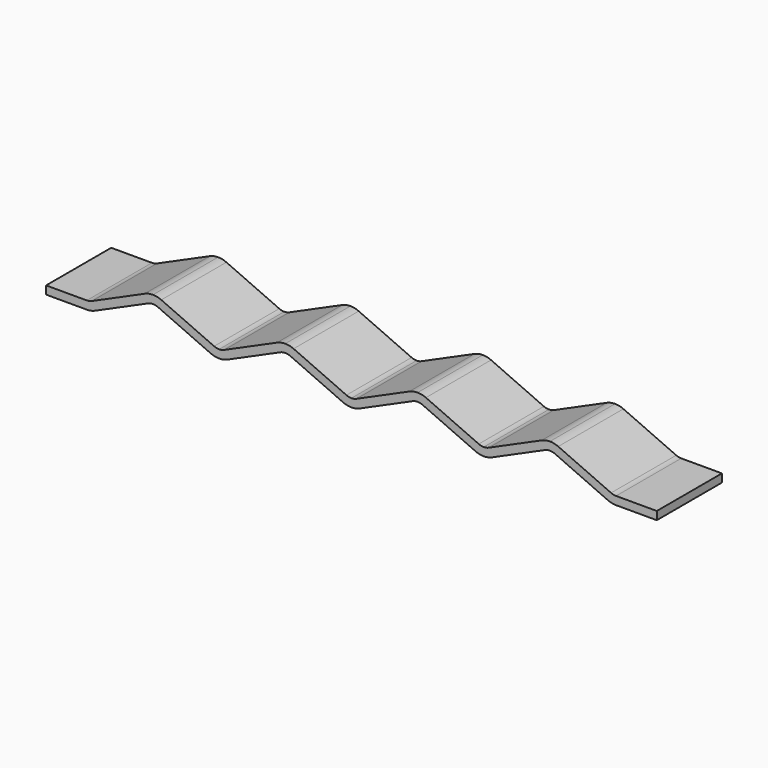
from build123d import *

# Parameters (mm, degrees)
PAD011_DEPTH               = 4
PAD011_MIRRORED008_2_DEPTH = 4
LINEARPATTERN004_COUNT     = 2
LINEARPATTERN004_PITCH     = 6.5
SKETCH041_W                = 2
SKETCH041_H                = 0.4
PAD022_DEPTH               = 4


with BuildPart() as part:
    # Sketch024 (on DatumPlane) → Pad011 (new body)
    with BuildSketch(Plane(origin=(55, 42.304, 0), x_dir=(1, 0, 0), z_dir=(0, -1, 0))):
        with BuildLine():
            Line((0, 5.2), (0, 5.6))
            ThreePointArc((0, 5.6), (0.125164, 5.6132), (0.24482, 5.65222))
            Line((0.24482, 5.65222), (2.841966, 6.812967))
            ThreePointArc((3.25, 6.9), (3.041394, 6.878), (2.841966, 6.812967))
            Line((3.25, 6.5), (3.25, 6.9))
            ThreePointArc((3.25, 6.5), (3.124841, 6.486801), (3.005188, 6.447784))
            Line((0.408034, 5.287033), (3.005188, 6.447784))
            ThreePointArc((0, 5.2), (0.208606, 5.222), (0.408034, 5.287033))
        make_face()
    pad011 = extrude(amount=PAD011_DEPTH)

    # Sketch024 Mirrored008 2 → Pad011 Mirrored008 2 (add)
    with BuildSketch(Plane(origin=(61.5, 42.304, 0), x_dir=(-1, 0, 0), z_dir=(0, 1, 0))):
        with BuildLine():
            Line((0, 5.2), (0, 5.6))
            ThreePointArc((0, 5.6), (0.125164, 5.6132), (0.24482, 5.65222))
            Line((0.24482, 5.65222), (2.841966, 6.812967))
            ThreePointArc((3.25, 6.9), (3.041394, 6.878), (2.841966, 6.812967))
            Line((3.25, 6.5), (3.25, 6.9))
            ThreePointArc((3.25, 6.5), (3.124841, 6.486801), (3.005188, 6.447784))
            Line((0.408034, 5.287033), (3.005188, 6.447784))
            ThreePointArc((0, 5.2), (0.208606, 5.222), (0.408034, 5.287033))
        make_face()
    pad011_mirrored008_2 = extrude(amount=-PAD011_MIRRORED008_2_DEPTH)

    # LinearPattern004: Pad011, Pad011 Mirrored008 2 ×2
    with Locations(*[(i * LINEARPATTERN004_PITCH, 0, 0) for i in range(1, LINEARPATTERN004_COUNT)]):
        add(pad011)
        add(pad011_mirrored008_2)

    # Sketch041 (on DatumPlane) → Pad022 (join)
    with BuildSketch(Plane(origin=(55, 42.304, 0), x_dir=(1, 0, 0), z_dir=(0, -1, 0))):
        with Locations((14, 5.4)):
            Rectangle(SKETCH041_W, SKETCH041_H)
    extrude(amount=PAD022_DEPTH)

    # Mirrored009: part across Sketch041 V_Axis


with BuildPart() as part_1:
    add(part.part)
    add(part.part.mirror(Plane(origin=(55, 42.304, 0), x_dir=(0, -1, 0), z_dir=(1, 0, 0))))


solid = part_1.part
